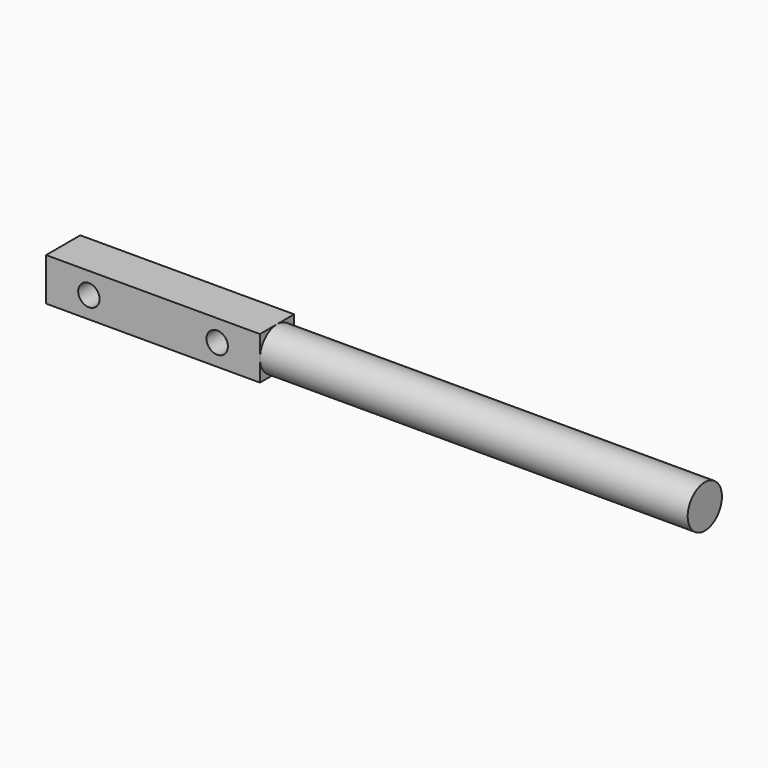
from build123d import *

# Parameters (mm, degrees)
F0_W     = 63.5
F0_H     = 12.7
F0_R     = 3.175
F1_DEPTH = 12.7
F2_R     = 6.35
F3_DEPTH = 127


with BuildPart() as f1:
    # F0 (on Front) → F1 (new body)
    with BuildSketch(Plane.XZ):
        with Locations((-19.05, 0)):
            Rectangle(F0_W, F0_H)
        with Locations((-38.1, 0)):
            Circle(F0_R, mode=Mode.SUBTRACT)
        Circle(F0_R, mode=Mode.SUBTRACT)
    extrude(amount=F1_DEPTH)

    # F2 (on face) → F3 (join)
    with BuildSketch(Plane.YZ.offset(12.7)):
        with Locations((-6.35, 0)):
            Circle(F2_R)
    extrude(amount=F3_DEPTH)


solid = f1.part
